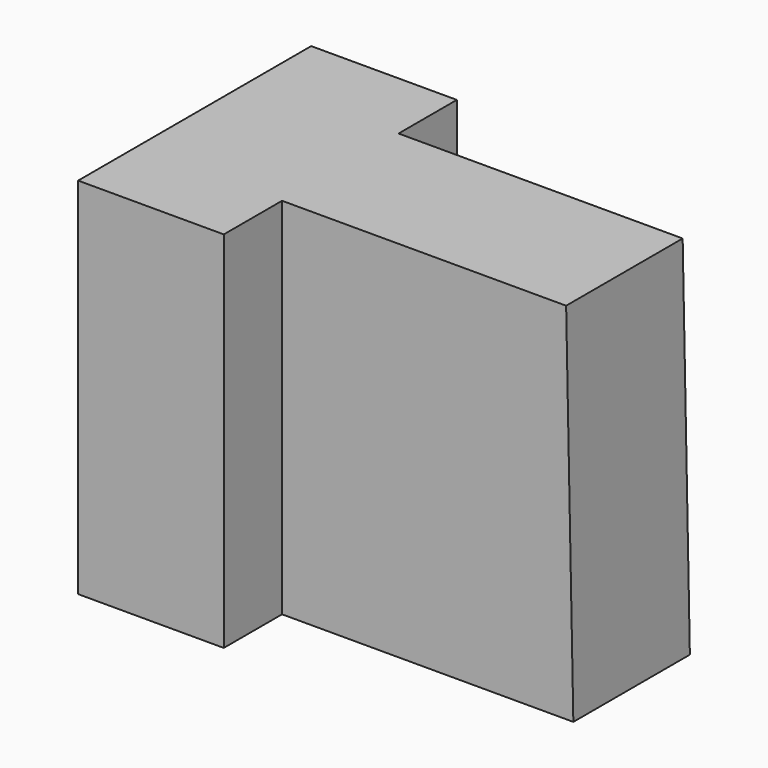
from build123d import *

# Parameters (mm, degrees)
F1_DEPTH = 25.4
F3_DEPTH = 6.35
F5_DEPTH = 6.35


with BuildPart() as f1:
    # F0 (on Front) → F1 (new body)
    with BuildSketch(Plane.XZ):
        Polygon((37.471404, 31.743777), (0, 31.743777), (0, 0), (38.1, 0), align=None)
    extrude(amount=F1_DEPTH)

    # F2 (on face) → F3 (cut)
    with BuildSketch(Plane.XZ.offset(25.4)):
        Polygon((37.471404, 31.743777), (12.7, 31.743777), (12.7, 0), (38.1, 0), align=None)
    extrude(amount=-F3_DEPTH, mode=Mode.SUBTRACT)

    # F4 (on face) → F5 (cut)
    with BuildSketch(Plane(origin=(0, 0, 0), x_dir=(-1, 0, 0), z_dir=(0, 1, 0))):
        Polygon((-38.1, 0), (-12.7, 0), (-12.7, 8.530987), (-12.7, 31.743777), (-37.471404, 31.743777), align=None)
    extrude(amount=-F5_DEPTH, mode=Mode.SUBTRACT)


solid = f1.part
